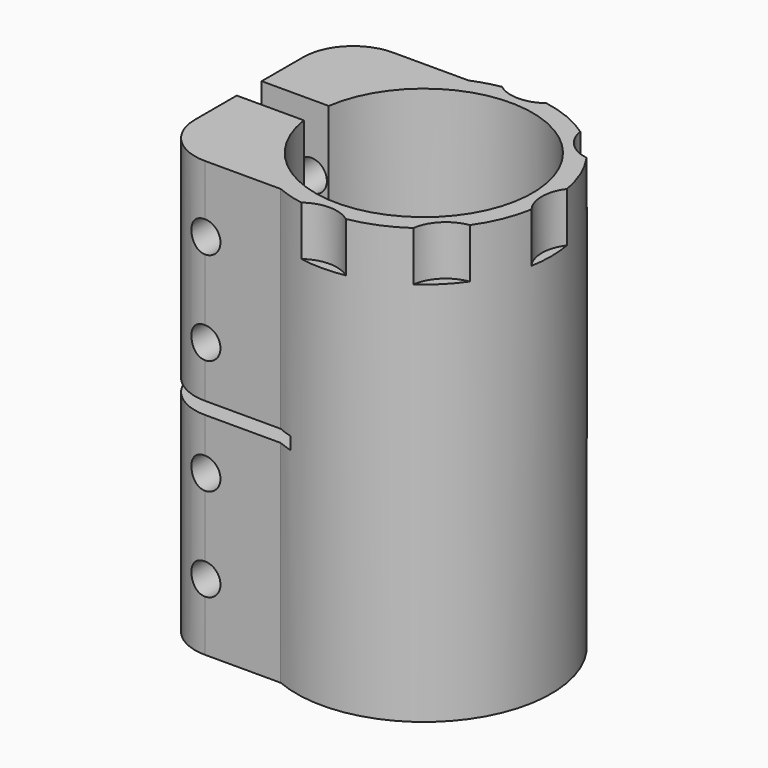
from build123d import *

# Parameters (mm, degrees)
F1_DEPTH       = 35
F3_D           = 5
F3_START       = 1.7550021
F3_CBORE_D     = 10
F3_CBORE_DEPTH = 8
F4_W           = 22.4
F4_H           = 2
F5_DEPTH       = 25
F7_DEPTH       = 8


with BuildPart() as f1:
    # F0 (on Top) → F1 (new body, symmetric)
    with BuildSketch(Plane.XY):
        with BuildLine():
            ThreePointArc((-17.3192642082, 2.5086026559), (17.5, 0), (-17.3192642082, -2.5086026559))
            Line((-17.3192642082, -2.5086026559), (-28.1192642082, -2.5086026559))
            Line((-28.1192642082, -2.5086026559), (-28.1192642082, -10.9086026559))
            ThreePointArc((-28.1192642082, -10.9086026559), (-25.7761184577, -16.5654569054), (-20.1192642082, -18.9086026559))
            Line((-20.1192642082, -18.9086026559), (-7.9192642082, -18.9086026559))
            ThreePointArc((-7.9192642082, -18.9086026559), (20.5, 0), (-7.9192642082, 18.9086026559))
            Line((-7.9192642082, 18.9086026559), (-20.1192642082, 18.9086026559))
            ThreePointArc((-20.1192642082, 18.9086026559), (-25.7761184577, 16.5654569054), (-28.1192642082, 10.9086026559))
            Line((-28.1192642082, 10.9086026559), (-28.1192642082, 2.5086026559))
            Line((-28.1192642082, 2.5086026559), (-17.3192642082, 2.5086026559))
        make_face()
    extrude(amount=F1_DEPTH, both=True)

    # F3 (through all)
    # its depths count from where the whole tool has entered the part; down to there all is cleared
    with Locations(Plane(origin=(0, 18.9086026559, 0), x_dir=(-1, 0, 0), z_dir=(0, 1, 0)).offset(-F3_START)):
        with Locations((20.1192642082, -24.25), (20.1192642082, -9.25), (20.1192642082, 9.25), (20.1192642082, 24.25)):
            CounterBoreHole(F3_D / 2, F3_CBORE_D / 2, F3_CBORE_DEPTH)

    # F4 (on Front) → F5 (cut, symmetric)
    with BuildSketch(Plane.XZ):
        with Locations((-16.9192642082, 0)):
            Rectangle(F4_W, F4_H)
    extrude(amount=F5_DEPTH, both=True, mode=Mode.SUBTRACT)

    # F6 (on face) → F7 (cut)
    with BuildSketch(Plane.XY.offset(35)):
        with BuildLine():
            ThreePointArc((-3.5799127084, 20.185), (0, 19), (3.5799127084, 20.185))
            ThreePointArc((3.5799127084, 20.185), (0, 20.5), (-3.5799127084, 20.185))
        make_face()
        with BuildLine():
            ThreePointArc((-3.5799127084, 20.185), (0, 20.5), (3.5799127084, 20.185))
            ThreePointArc((3.5799127084, 20.185), (5.3609456372, 22.305512688), (6, 25))
            ThreePointArc((6, 25), (-2.694487312, 30.3609456372), (-3.5799127084, 20.185))
        make_face()
        with BuildLine():
            ThreePointArc((11.7415698261, 16.8043309304), (13.4350288425, 13.4350288425), (16.8043309304, 11.7415698261))
            ThreePointArc((16.8043309304, 11.7415698261), (14.4956890143, 14.4956890143), (11.7415698261, 16.8043309304))
        make_face()
        with BuildLine():
            ThreePointArc((11.7415698261, 16.8043309304), (14.4956890143, 14.4956890143), (16.8043309304, 11.7415698261))
            ThreePointArc((16.8043309304, 11.7415698261), (21.5994018258, 13.1367427743), (23.6776695297, 17.6776695297))
            ThreePointArc((23.6776695297, 17.6776695297), (17.2398329286, 23.6616731318), (11.7415698261, 16.8043309304))
        make_face()
        with BuildLine():
            ThreePointArc((20.185, 3.5799127084), (19, 0), (20.185, -3.5799127084))
            ThreePointArc((20.185, -3.5799127084), (20.5, 0), (20.185, 3.5799127084))
        make_face()
        with BuildLine():
            ThreePointArc((20.185, 3.5799127084), (20.5, 0), (20.185, -3.5799127084))
            ThreePointArc((20.185, -3.5799127084), (26.8854707635, -5.6960512638), (31, 0))
            ThreePointArc((31, 0), (26.8854707635, 5.6960512638), (20.185, 3.5799127084))
        make_face()
        with BuildLine():
            ThreePointArc((16.8043309304, -11.7415698261), (13.4350288425, -13.4350288425), (11.7415698261, -16.8043309304))
            ThreePointArc((11.7415698261, -16.8043309304), (14.4956890143, -14.4956890143), (16.8043309304, -11.7415698261))
        make_face()
        with BuildLine():
            ThreePointArc((16.8043309304, -11.7415698261), (14.4956890143, -14.4956890143), (11.7415698261, -16.8043309304))
            ThreePointArc((11.7415698261, -16.8043309304), (17.2398329286, -23.6616731318), (23.6776695297, -17.6776695297))
            ThreePointArc((23.6776695297, -17.6776695297), (21.5994018258, -13.1367427743), (16.8043309304, -11.7415698261))
        make_face()
        with BuildLine():
            ThreePointArc((-3.5799127084, -20.185), (0, -20.5), (3.5799127084, -20.185))
            ThreePointArc((3.5799127084, -20.185), (0, -19), (-3.5799127084, -20.185))
        make_face()
        with BuildLine():
            ThreePointArc((-3.5799127084, -20.185), (-2.694487312, -30.3609456372), (6, -25))
            ThreePointArc((6, -25), (5.3609456372, -22.305512688), (3.5799127084, -20.185))
            ThreePointArc((3.5799127084, -20.185), (0, -20.5), (-3.5799127084, -20.185))
        make_face()
    extrude(amount=-F7_DEPTH, mode=Mode.SUBTRACT)


solid = f1.part
